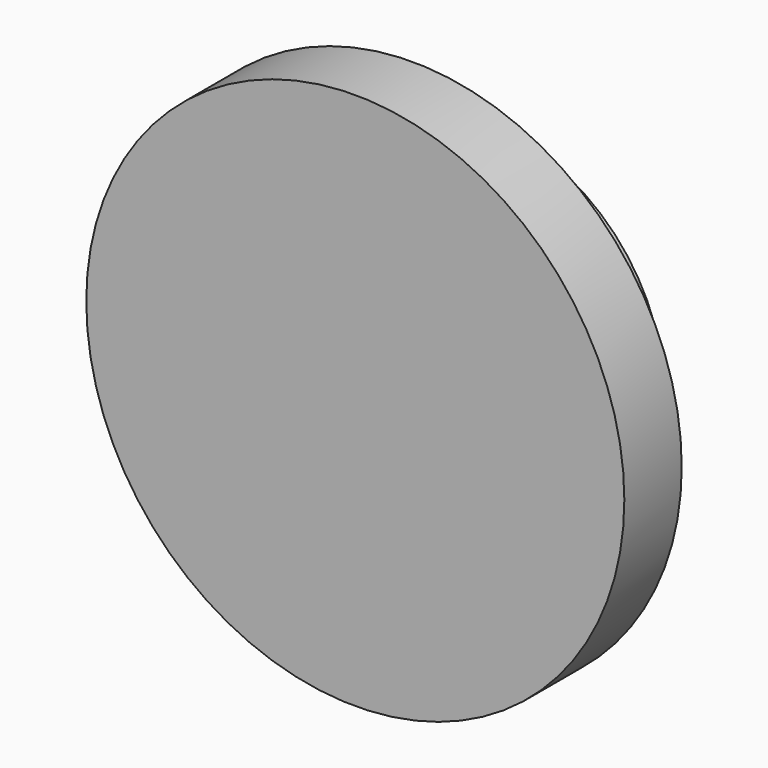
from build123d import *

# Parameters (mm, degrees)
F0_R     = 6.35
F1_DEPTH = 3.175
F2_R     = 9.525
F2_R_2   = 6.35
F3_DEPTH = 2.54
F4_R     = 4.445
F5_DEPTH = 2.54


with BuildPart() as f1:
    # F0 (on Front) → F1 (new body)
    with BuildSketch(Plane.XZ):
        Circle(F0_R)
    extrude(amount=F1_DEPTH)

    # F2 (on face) → F3 (join)
    with BuildSketch(Plane.XZ.offset(3.175)):
        Circle(F2_R)
        Circle(F2_R_2, mode=Mode.SUBTRACT)
        Circle(F2_R_2)
    extrude(amount=F3_DEPTH)

    # F4 (on face) → F5 (cut)
    with BuildSketch(Plane(origin=(0, 0, 0), x_dir=(-1, 0, 0), z_dir=(0, 1, 0))):
        Circle(F4_R)
    extrude(amount=-F5_DEPTH, mode=Mode.SUBTRACT)


solid = f1.part
